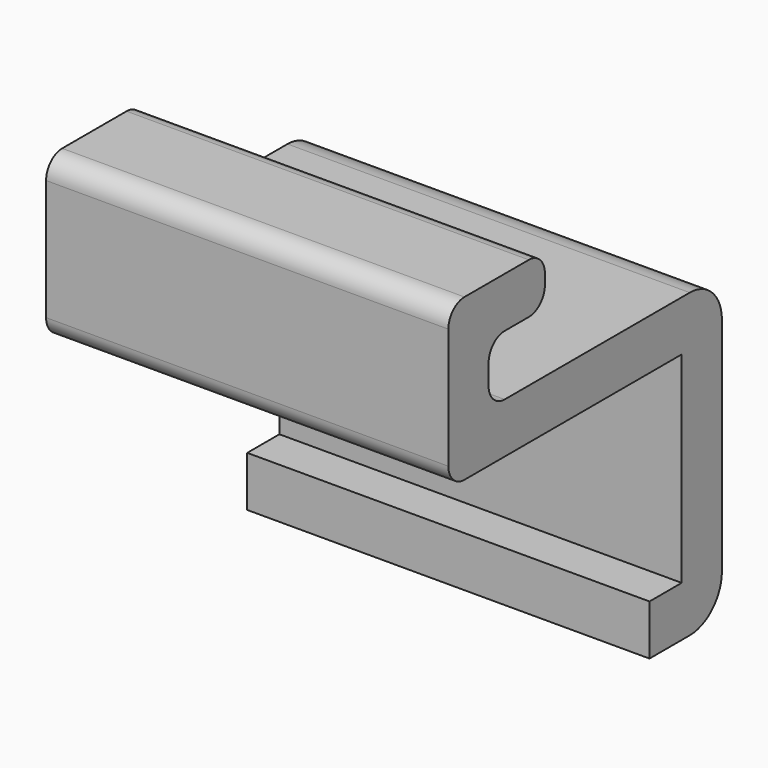
from build123d import *

# Parameters (mm, degrees)
F1_DEPTH = 20
F2_R     = 4
F3_R     = 4
F4_R     = 2


with BuildPart() as f1:
    # F0 (on Right) → F1 (new body, symmetric)
    with BuildSketch(Plane.YZ):
        Polygon((-9.808125, -28.503724), (-13.808125, -28.503724), (-13.808125, -33.503724), (-4.808125, -33.503724), (-4.808125, -3.503724), (-33.808125, -3.503724), (-33.808125, 2.496276), (-26.808125, 2.496276), (-26.808125, 7.496276), (-38.808125, 7.496276), (-38.808125, -8.503724), (-9.808125, -8.503724), align=None)
    extrude(amount=F1_DEPTH, both=True)

    # F2
    f2_edges = [f1.edges().sort_by_distance(p)[0] for p in [
        (0, -4.808125, -3.503724),
    ]]
    fillet(f2_edges, radius=F2_R)

    # F3
    f3_edges = [f1.edges().sort_by_distance(p)[0] for p in [
        (0, -4.808125, -33.503724),
    ]]
    fillet(f3_edges, radius=F3_R)

    # F4
    f4_edges = [f1.edges().sort_by_distance(p)[0] for p in [
        (0, -33.808125, 2.496276),
        (0, -26.808125, 2.496276),
        (0, -26.808125, 7.496276),
        (0, -38.808125, 7.496276),
        (0, -38.808125, -8.503724),
        (0, -33.808125, -3.503724),
    ]]
    fillet(f4_edges, radius=F4_R)


solid = f1.part
